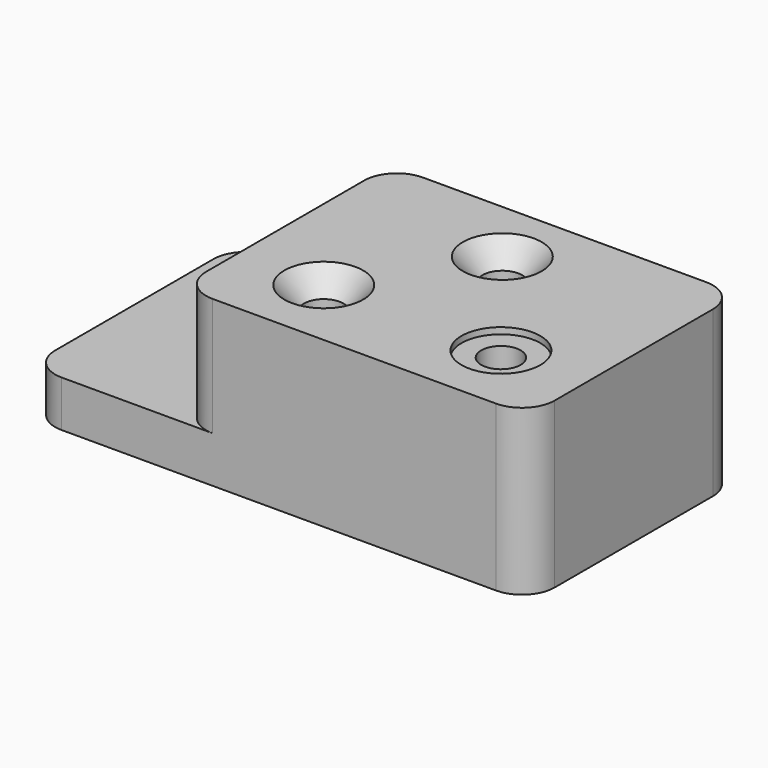
from build123d import *

# Parameters (mm, degrees)
F0_W                 = 241.3
F0_H                 = 127
F1_DEPTH             = 22.352
F2_W                 = 168.402
F2_H                 = 127
F3_DEPTH             = 57.15
F4_R                 = 15.748
F7_D                 = 19.05
F7_CBORE_D           = 38.1
F7_CBORE_DEPTH       = 3.048
F7_ON_F6_D           = 19.05
F7_ON_F6_CBORE_D     = 38.1
F7_ON_F6_CBORE_DEPTH = 3.048
F8_D                 = 19.05
F8_CSINK_D           = 38.1
F8_CSINK_ANGLE       = 82


with BuildPart() as f1:
    # F0 (on Top) → F1 (new body)
    with BuildSketch(Plane.XY):
        with Locations((120.65, 63.5)):
            Rectangle(F0_W, F0_H)
    extrude(amount=F1_DEPTH)

    # F2 (on face) → F3 (join)
    with BuildSketch(Plane.XY.offset(22.352)):
        with Locations((157.099, 63.5)):
            Rectangle(F2_W, F2_H)
    extrude(amount=F3_DEPTH)

    # F4
    f4_edges = [f1.edges().sort_by_distance(p)[0] for p in [
        (241.3, 0, 39.751),
        (241.3, 127, 39.751),
        (72.898, 127, 50.927),
        (72.898, 0, 50.927),
        (0, 0, 11.176),
        (0, 127, 11.176),
    ]]
    fillet(f4_edges, radius=F4_R)

    # F7 (through all)
    with Locations(Plane.XY.offset(79.502)):
        with Locations((199.898, 35.052)):
            CounterBoreHole(F7_D / 2, F7_CBORE_D / 2, F7_CBORE_DEPTH)

    # F7 on F6 (through all)
    with Locations(Plane.XY.offset(22.352)):
        with Locations((35.052, 95.25)):
            CounterBoreHole(F7_ON_F6_D / 2, F7_ON_F6_CBORE_D / 2, F7_ON_F6_CBORE_DEPTH)

    # F8 (through all)
    with Locations(Plane.XY.offset(79.502)):
        with Locations((114.3, 35.052), (152.4, 95.25)):
            CounterSinkHole(F8_D / 2, F8_CSINK_D / 2, counter_sink_angle=F8_CSINK_ANGLE)


solid = f1.part
